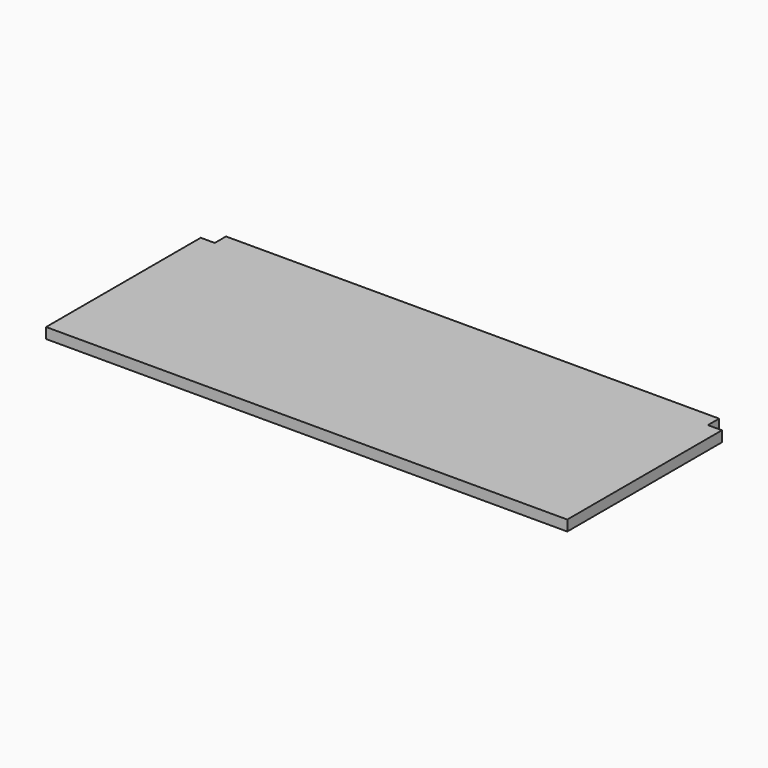
from build123d import *

# Parameters (mm, degrees)
EXTRUDE_DEPTH = 5.9944


with BuildPart() as part:
    # Sketch → Extrude (new body)
    with BuildSketch(Plane.XY):
        Polygon((0, 0), (295.275, 0), (295.275, 109.5248), (287.3248, 109.5248), (287.3248, 117.475), (7.9502, 117.475), (7.9502, 109.5248), (0, 109.5248), align=None)
    extrude(amount=EXTRUDE_DEPTH)


solid = part.part
